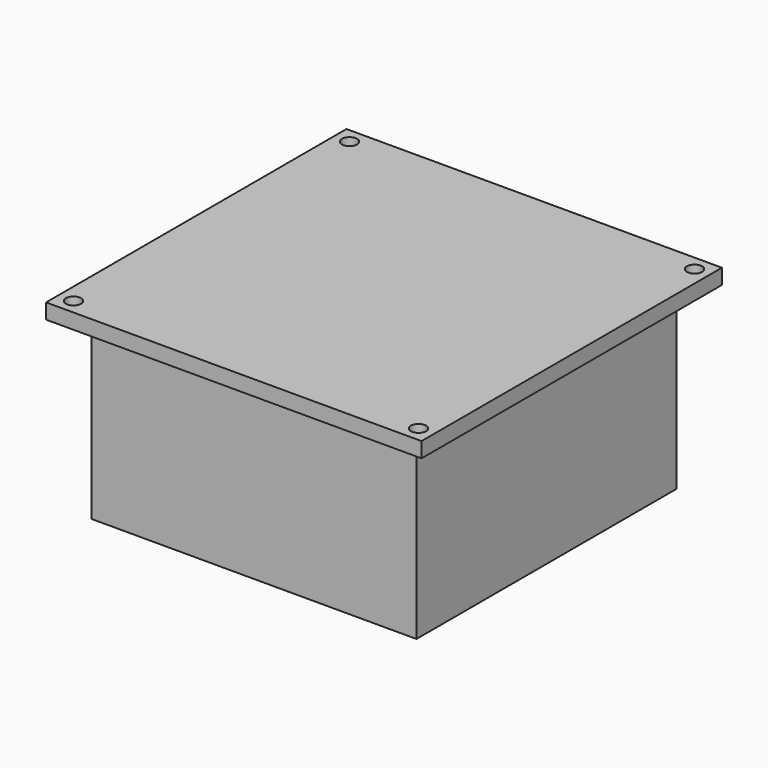
from build123d import *

# Parameters (mm, degrees)
SKETCH_W                   = 74
SKETCH_H                   = 74
PAD_DEPTH                  = 3
SKETCH002_W                = 64
SKETCH002_H                = 64
SKETCH002_W_2              = 60
SKETCH002_H_2              = 60
PAD001_DEPTH               = 35
SKETCH003_R                = 1.5
POCKET_DEPTH               = 225.675651
PAD002_DEPTH               = 32
SKETCH005_R                = 2.4
POCKET001_DEPTH            = 10
SKETCH003_MIRRORED_2_R     = 1.5
POCKET_MIRRORED_2_DEPTH    = 225.675651
PAD002_MIRRORED_2_DEPTH    = 32
SKETCH005_MIRRORED_2_R     = 2.4
POCKET001_MIRRORED_2_DEPTH = 10


with BuildPart() as part:
    # Sketch → Pad (new body)
    with BuildSketch(Plane.XY):
        Rectangle(SKETCH_W, SKETCH_H)
    extrude(amount=PAD_DEPTH)

    # Sketch002 (on Face5 of Pad) → Pad001 (join)
    with BuildSketch(Plane(origin=(0, 0, 0), x_dir=(1, 0, 0), z_dir=(0, 0, -1))):
        Rectangle(SKETCH002_W, SKETCH002_H)
        Rectangle(SKETCH002_W_2, SKETCH002_H_2, mode=Mode.SUBTRACT)
    extrude(amount=PAD001_DEPTH)

    # Sketch003 (on Face4 of Pad001) → Pocket (cut, through all)
    with BuildSketch(Plane(origin=(0, 0, 0), x_dir=(1, 0, 0), z_dir=(0, 0, -1))):
        with Locations((-34, 34)):
            Circle(SKETCH003_R)
    pocket = extrude(amount=-POCKET_DEPTH, mode=Mode.SUBTRACT)

    # Sketch004 (on Face17 of Pocket) → Pad002 (join)
    with BuildSketch(Plane(origin=(0, 0, 0), x_dir=(1, 0, 0), z_dir=(0, 0, -1))):
        with BuildLine():
            ThreePointArc((-30, 22), (-24.343146, 24.343146), (-22, 30))
            Line((-30, 30), (-22, 30))
            Line((-30, 30), (-30, 22))
        make_face()
    pad002 = extrude(amount=PAD002_DEPTH)

    # Sketch005 (on Face17 of Pad002) → Pocket001 (cut)
    with BuildSketch(Plane(origin=(0, 0, -32), x_dir=(1, 0, 0), z_dir=(0, 0, -1))):
        with Locations((-27, 27)):
            Circle(SKETCH005_R)
    pocket001 = extrude(amount=-POCKET001_DEPTH, mode=Mode.SUBTRACT)

    # Sketch003 Mirrored 2 → Pocket Mirrored 2 (cut, through all)
    with BuildSketch(Plane(origin=(0, 0, 0), x_dir=(-1, 0, 0), z_dir=(0, 0, 1))):
        with Locations((-34, 34)):
            Circle(SKETCH003_MIRRORED_2_R)
    pocket_mirrored_2 = extrude(amount=POCKET_MIRRORED_2_DEPTH, mode=Mode.SUBTRACT)

    # Sketch004 Mirrored 2 → Pad002 Mirrored 2 (add)
    with BuildSketch(Plane(origin=(0, 0, 0), x_dir=(-1, 0, 0), z_dir=(0, 0, 1))):
        with BuildLine():
            ThreePointArc((-30, 22), (-24.343146, 24.343146), (-22, 30))
            Line((-30, 30), (-22, 30))
            Line((-30, 30), (-30, 22))
        make_face()
    pad002_mirrored_2 = extrude(amount=-PAD002_MIRRORED_2_DEPTH)

    # Sketch005 Mirrored 2 → Pocket001 Mirrored 2 (cut)
    with BuildSketch(Plane(origin=(0, 0, -32), x_dir=(-1, 0, 0), z_dir=(0, 0, 1))):
        with Locations((-27, 27)):
            Circle(SKETCH005_MIRRORED_2_R)
    pocket001_mirrored_2 = extrude(amount=POCKET001_MIRRORED_2_DEPTH, mode=Mode.SUBTRACT)

    # Mirrored001: Pocket, Pad002, Pocket001, Pocket Mirrored 2, Pad002 Mirrored 2, Pocket001 Mirrored 2 across Sketch003 H_Axis
    add(pocket.mirror(Plane(origin=(0, 0, 0), x_dir=(0, 0, -1), z_dir=(0, -1, 0))), mode=Mode.SUBTRACT)
    add(pad002.mirror(Plane(origin=(0, 0, 0), x_dir=(0, 0, -1), z_dir=(0, -1, 0))))
    add(pocket001.mirror(Plane(origin=(0, 0, 0), x_dir=(0, 0, -1), z_dir=(0, -1, 0))), mode=Mode.SUBTRACT)
    add(pocket_mirrored_2.mirror(Plane(origin=(0, 0, 0), x_dir=(0, 0, -1), z_dir=(0, -1, 0))), mode=Mode.SUBTRACT)
    add(pad002_mirrored_2.mirror(Plane(origin=(0, 0, 0), x_dir=(0, 0, -1), z_dir=(0, -1, 0))))
    add(pocket001_mirrored_2.mirror(Plane(origin=(0, 0, 0), x_dir=(0, 0, -1), z_dir=(0, -1, 0))), mode=Mode.SUBTRACT)


solid = part.part
